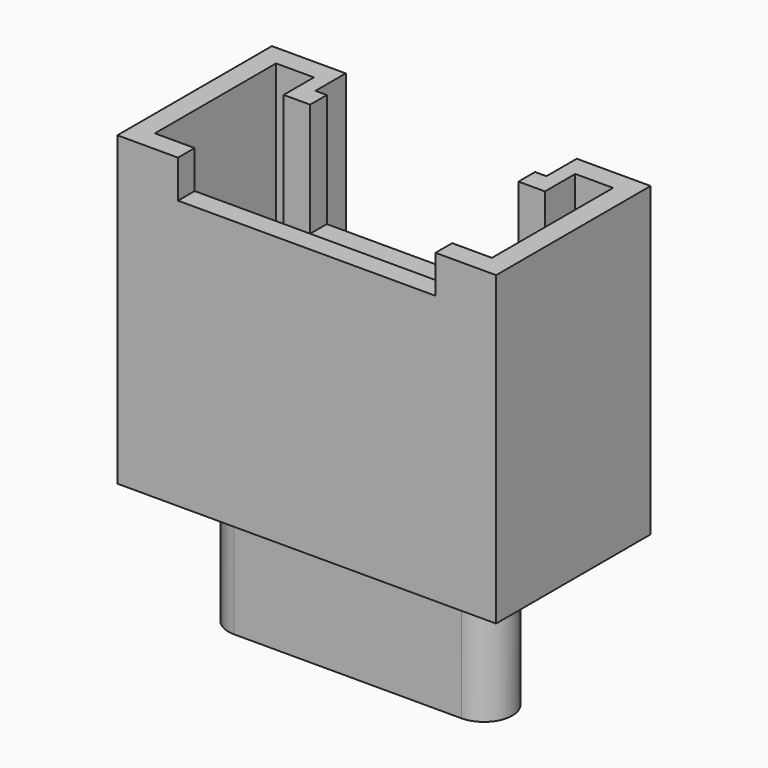
from build123d import *

# Parameters (mm, degrees)
PAD005_DEPTH            = 8.1
POCKET003_DEPTH         = 7
SKETCH010_W             = 6.8
SKETCH010_H             = 5
POCKET004_DEPTH         = 1
SKETCH011_W             = 5.5
SKETCH011_H             = 3
POCKET005_DEPTH         = 3
PAD006_DEPTH            = 4
PAD007_DEPTH            = 3.4
BODY005_PLACEMENT_ANGLE = 180


with BuildPart() as part:
    # Sketch008 → Pad005 (new body)
    with BuildSketch(Plane.XY):
        Polygon((-5, 0), (-3.05, 0), (-3.05, 1), (3.05, 1), (3.05, 0), (5, 0), (5, 5.1), (-5, 5.1), align=None)
    extrude(amount=PAD005_DEPTH)

    # Sketch009 (on Face10 of Pad005) → Pocket003 (cut)
    with BuildSketch(Plane.XY.offset(8.1)):
        Polygon((-4.45, 0.55), (-3.45, 0.55), (-3.45, 1.55), (3.45, 1.55), (3.45, 0.55), (4.45, 0.55), (4.45, 4.55), (-4.45, 4.55), align=None)
    extrude(amount=-POCKET003_DEPTH, mode=Mode.SUBTRACT)

    # Sketch010 (on Face5 of Pocket003) → Pocket004 (cut)
    with BuildSketch(Plane.XY.offset(8.1)):
        with Locations((0, 5.5)):
            Rectangle(SKETCH010_W, SKETCH010_H)
    extrude(amount=-POCKET004_DEPTH, mode=Mode.SUBTRACT)

    # Sketch011 (on Face5 of Pocket004) → Pocket005 (cut)
    with BuildSketch(Plane.XY.offset(8.1)):
        with Locations((0, 1.5)):
            Rectangle(SKETCH011_W, SKETCH011_H)
    extrude(amount=-POCKET005_DEPTH, mode=Mode.SUBTRACT)

    # Sketch012 (on Face26 of Pocket005) → Pad006 (join)
    with BuildSketch(Plane.XY.offset(1.1)):
        with BuildLine():
            ThreePointArc((-3.4, 3.25), (-3.65, 3), (-3.4, 2.75))
            Line((-3.4, 2.75), (3.4, 2.75))
            ThreePointArc((3.4, 2.75), (3.65, 3), (3.4, 3.25))
            Line((-3.4, 3.25), (3.4, 3.25))
        make_face()
    extrude(amount=PAD006_DEPTH)

    # Sketch013 → Pad007 (join)
    with BuildSketch(Plane.XY):
        with BuildLine():
            ThreePointArc((-3, 3.75), (-3.75, 3), (-3, 2.25))
            Line((-3, 2.25), (3, 2.25))
            ThreePointArc((3, 2.25), (3.75, 3), (3, 3.75))
            Line((-3, 3.75), (3, 3.75))
        make_face()
    extrude(amount=-PAD007_DEPTH)


with BuildPart() as part_1:
    # Body005 placement: moved
    add(part.part.moved(Location((0.2, -3, 1.6))).rotate(Axis((0.2, -3, 1.6), (0, 0, 1)), BODY005_PLACEMENT_ANGLE))


solid = part_1.part
